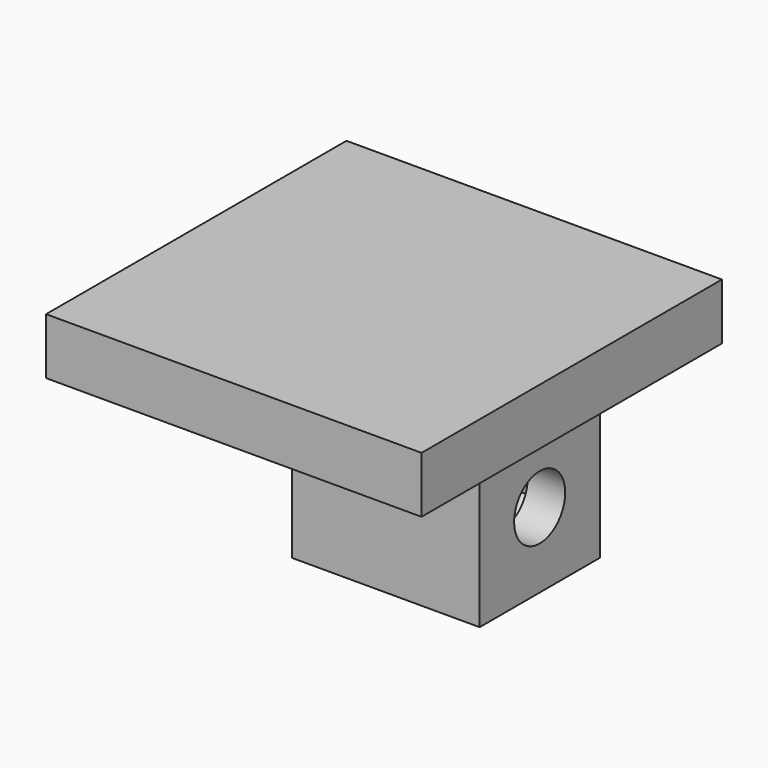
from build123d import *

# Parameters (mm, degrees)
CYLINDER032_R              = 1.7
CYLINDER032_DEPTH          = 20
EXTRUDE005_DEPTH           = 9
EXTRUDE005_PLACEMENT_ANGLE = 90
BOX044_W                   = 10
BOX044_H                   = 8
BOX044_DEPTH               = 8
CUT053_PLACEMENT_ANGLE     = 180
BOX043_W                   = 20
BOX043_H                   = 20
BOX043_DEPTH               = 3


with BuildPart() as cylinder032:
    # Cylinder032 → Cylinder032 (new body)
    with BuildSketch(Plane(origin=(140, 9.74, 51.5), x_dir=(0, 0, -1), z_dir=(1, 0, 0))):
        Circle(CYLINDER032_R)
    extrude(amount=CYLINDER032_DEPTH)


with BuildPart() as extrude005:
    # Sketch005 → Extrude005 (new body)
    with BuildSketch(Plane.XY.offset(75)):
        Polygon((-29.694611, 6.813304), (-28.00073, 9.738351), (-29.686954, 12.667818), (-33.06706, 12.672239), (-34.760941, 9.747192), (-33.074716, 6.817725), align=None)
    extrude(amount=EXTRUDE005_DEPTH)


with BuildPart() as extrude005_1:
    # Extrude005 placement: moved
    add(extrude005.part.moved(Location((71, 0, 0))).rotate(Axis((71, 0, 0), (0, 1, 0)), EXTRUDE005_PLACEMENT_ANGLE))


with BuildPart() as cut053:
    # Box044 → Box044 (new body)
    with BuildSketch(Plane(origin=(144, 5.745, 27.5), x_dir=(1, 0, 0), z_dir=(0, 0, 1))):
        with Locations((5, 4)):
            Rectangle(BOX044_W, BOX044_H)
    extrude(amount=BOX044_DEPTH)

    # Cut052: cut Extrude005
    add(extrude005_1.part, mode=Mode.SUBTRACT)


with BuildPart() as cut053_1:
    # Cut052 placement: moved
    add(cut053.part.moved(Location((0, 0, 20))))

    # Cut053: cut Cylinder032
    add(cylinder032.part, mode=Mode.SUBTRACT)


with BuildPart() as cut053_2:
    # Cut053 placement: moved
    add(cut053_1.part.moved(Location((398, 10, 103))).rotate(Axis((398, 10, 103), (0, 1, 0)), CUT053_PLACEMENT_ANGLE))


with BuildPart() as topmounttest:
    # Box043 → Box043 (new body)
    with BuildSketch(Plane(origin=(235.5, 10, 55.5), x_dir=(1, 0, 0), z_dir=(0, 0, 1))):
        with Locations((10, 10)):
            Rectangle(BOX043_W, BOX043_H)
    extrude(amount=BOX043_DEPTH)

    # Fusion002: union Cut053
    add(cut053_2.part)


solid = topmounttest.part
